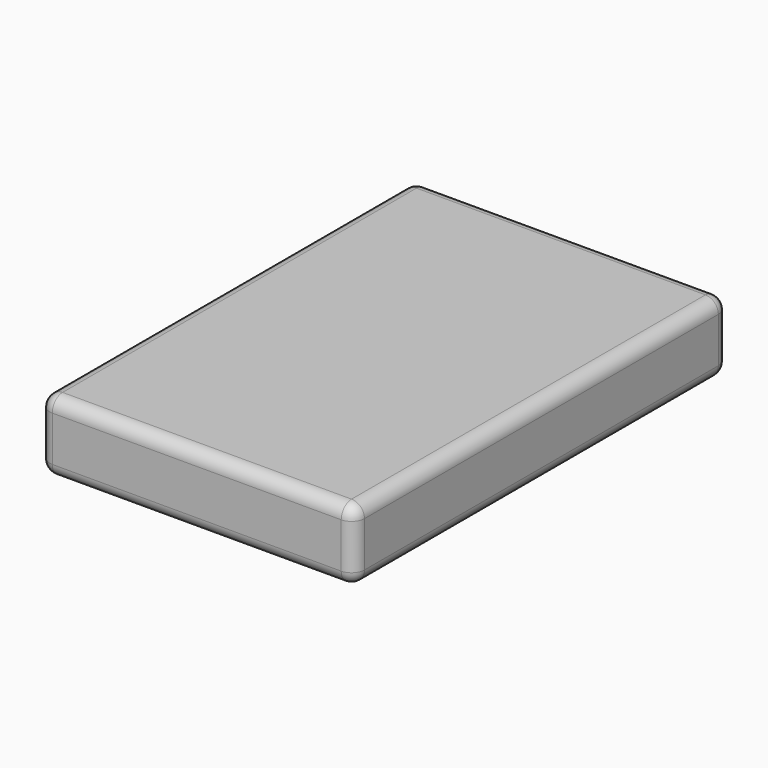
from build123d import *

# Parameters (mm, degrees)
F0_W     = 123.825
F0_H     = 184.15
F1_DEPTH = 13.97
F2_R     = 5.08
F3_R     = 5.08


with BuildPart() as f1:
    # F0 (on Top) → F1 (new body, symmetric)
    with BuildSketch(Plane.XY):
        Rectangle(F0_W, F0_H)
    extrude(amount=F1_DEPTH, both=True)

    # F2
    f2_edges = [f1.edges().sort_by_distance(p)[0] for p in [
        (-61.9125, -92.075, 0),
        (61.9125, -92.075, 0),
        (61.9125, 92.075, 0),
        (-61.9125, 92.075, 0),
    ]]
    fillet(f2_edges, radius=F2_R)

    # F3
    f3_edges = [f1.edges().sort_by_distance(p)[0] for p in [
        (61.9125, 0, 13.97),
        (61.9125, 0, -13.97),
    ]]
    fillet(f3_edges, radius=F3_R)


solid = f1.part
